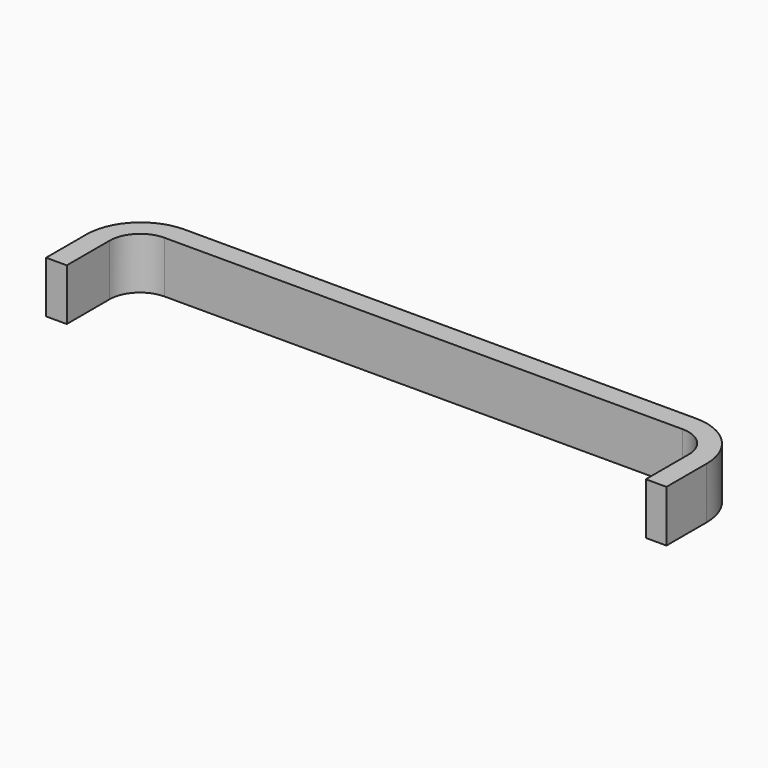
from build123d import *

# Parameters (mm, degrees)
F1_DEPTH = 25
F2_R     = 14.726703
F3_R     = 26.314928


with BuildPart() as f1:
    # F0 (on Top) → F1 (new body)
    with BuildSketch(Plane.XY):
        Polygon((148.460492, 13.362525), (-151.539508, 13.362525), (-151.539508, -37.299059), (-141.539508, -37.299059), (-141.539508, 3.362525), (138.460492, 3.362525), (138.460492, -37.299059), (148.460492, -37.299059), align=None)
    extrude(amount=F1_DEPTH)

    # F2
    f2_edges = [f1.edges().sort_by_distance(p)[0] for p in [
        (-141.539508, 3.362525, 12.5),
        (138.460492, 3.362525, 12.5),
    ]]
    fillet(f2_edges, radius=F2_R)

    # F3
    f3_edges = [f1.edges().sort_by_distance(p)[0] for p in [
        (-151.539508, 13.362525, 12.5),
        (148.460492, 13.362525, 12.5),
    ]]
    fillet(f3_edges, radius=F3_R)


solid = f1.part
